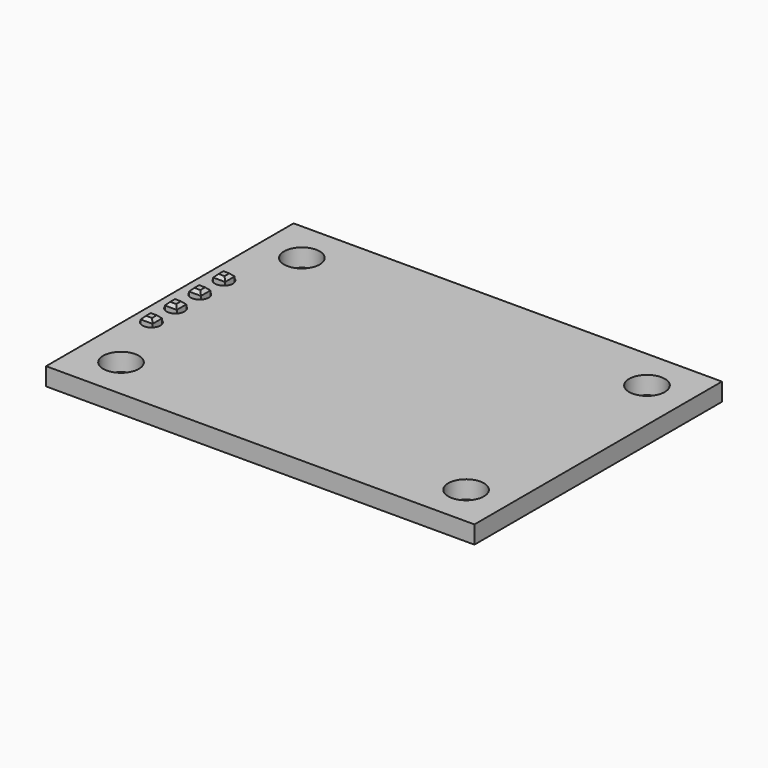
from build123d import *

# Parameters (mm, degrees)
SKETCH_W     = 36
SKETCH_H     = 26
SKETCH_R     = 1.5
SKETCH_R_2   = 0.75
PAD_DEPTH    = 1.5
PAD001_DEPTH = 1.5
SKETCH002_W  = 1
SKETCH002_H  = 1
PAD002_DEPTH = 3.5
CHAMFER_SIZE = 0.25


with BuildPart() as part:
    # Sketch → Pad (new body)
    with BuildSketch(Plane.XY):
        Rectangle(SKETCH_W, SKETCH_H)
        with Locations((-14.5, 9.5)):
            Circle(SKETCH_R, mode=Mode.SUBTRACT)
        with Locations((14.5, 9.5)):
            Circle(SKETCH_R, mode=Mode.SUBTRACT)
        with Locations((14.5, -9.5)):
            Circle(SKETCH_R, mode=Mode.SUBTRACT)
        with Locations((-14.5, -9.5)):
            Circle(SKETCH_R, mode=Mode.SUBTRACT)
        with Locations((-16.5, 3.81)):
            Circle(SKETCH_R_2, mode=Mode.SUBTRACT)
        with Locations((-16.5, 1.27)):
            Circle(SKETCH_R_2, mode=Mode.SUBTRACT)
        with Locations((-16.5, -1.27)):
            Circle(SKETCH_R_2, mode=Mode.SUBTRACT)
        with Locations((-16.5, -3.81)):
            Circle(SKETCH_R_2, mode=Mode.SUBTRACT)
    extrude(amount=PAD_DEPTH)

    # Sketch001 (on Face13 of Pad) → Pad001 (join)
    with BuildSketch(Plane(origin=(0, 0, 0), x_dir=(1, 0, 0), z_dir=(0, 0, -1))):
        Polygon((-17.77, 4.726447), (-17.77, 2.893553), (-17.416447, 2.54), (-15.583553, 2.54), (-15.23, 2.893553), (-15.23, 4.726447), (-15.583553, 5.08), (-17.416447, 5.08), align=None)
        Polygon((-17.77, 2.186447), (-17.77, 0.353553), (-17.416447, 0), (-15.583553, 0), (-15.23, 0.353553), (-15.23, 2.186447), (-15.583553, 2.54), (-17.416447, 2.54), align=None)
        Polygon((-17.77, -0.353553), (-17.77, -2.186447), (-17.416447, -2.54), (-15.583553, -2.54), (-15.23, -2.186447), (-15.23, -0.353553), (-15.583553, 0), (-17.416447, 0), align=None)
        Polygon((-17.77, -2.893553), (-17.77, -4.726447), (-17.416447, -5.08), (-15.583553, -5.08), (-15.23, -4.726447), (-15.23, -2.893553), (-15.583553, -2.54), (-17.416447, -2.54), align=None)
    extrude(amount=PAD001_DEPTH)

    # Sketch002 (on Face41 of Pad001) → Pad002 (join, symmetric)
    with BuildSketch(Plane(origin=(0, 0, -1.5), x_dir=(1, 0, 0), z_dir=(0, 0, -1))):
        with Locations((-16.5, 3.81)):
            Rectangle(SKETCH002_W, SKETCH002_H)
        with Locations((-16.5, 1.27)):
            Rectangle(SKETCH002_W, SKETCH002_H)
        with Locations((-16.5, -1.27)):
            Rectangle(SKETCH002_W, SKETCH002_H)
        with Locations((-16.5, -3.81)):
            Rectangle(SKETCH002_W, SKETCH002_H)
    extrude(amount=PAD002_DEPTH, both=True)

    # Chamfer
    chamfer_edges = [part.edges().sort_by_distance(p)[0] for p in [
        (-16, 1.27, 2),
        (-16, 3.81, 2),
        (-16.5, 4.31, 2),
        (-17, 3.81, 2),
        (-16.5, 3.31, 2),
        (-16.5, 1.77, 2),
        (-17, 1.27, 2),
        (-16.5, 0.77, 2),
        (-17, -1.27, 2),
        (-16.5, -0.77, 2),
        (-16, -1.27, 2),
        (-16.5, -1.77, 2),
        (-16.5, -3.31, 2),
        (-17, -3.81, 2),
        (-16.5, -4.31, 2),
        (-16, -3.81, 2),
        (-16, -1.27, -5),
        (-16, -3.81, -5),
        (-16.5, -4.31, -5),
        (-17, -3.81, -5),
        (-16.5, -3.31, -5),
        (-16.5, -1.77, -5),
        (-17, -1.27, -5),
        (-16.5, -0.77, -5),
        (-16.5, 0.77, -5),
        (-16, 1.27, -5),
        (-16.5, 1.77, -5),
        (-17, 1.27, -5),
        (-16.5, 3.31, -5),
        (-16, 3.81, -5),
        (-16.5, 4.31, -5),
        (-17, 3.81, -5),
    ]]
    chamfer(chamfer_edges, length=CHAMFER_SIZE)


solid = part.part
